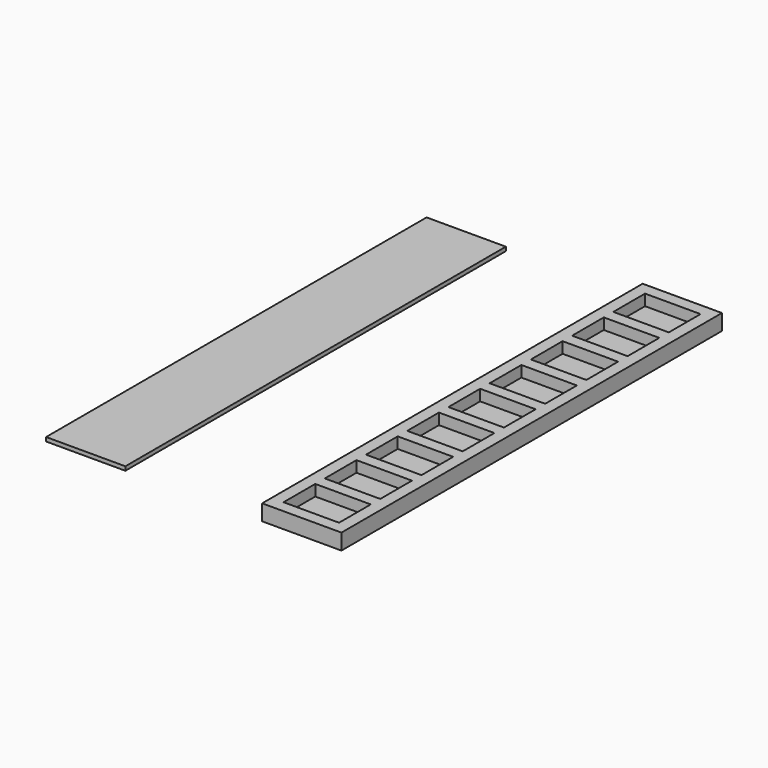
from build123d import *

# Parameters (mm, degrees)
F0_W     = 10
F0_H     = 60
F0_W_2   = 7
F0_H_2   = 5
F1_DEPTH = 2
F2_W     = 10
F2_H     = 60
F3_DEPTH = 0.5
F4_W     = 9
F4_H     = 59
F5_DEPTH = 0.6
F6_W     = 9
F6_H     = 59
F7_DEPTH = 0.6


with BuildPart() as f1:
    # F0 (on Top) → F1 (new body)
    with BuildSketch(Plane.XY):
        with Locations((5, 30)):
            Rectangle(F0_W, F0_H)
        with Locations((5, 4)):
            Rectangle(F0_W_2, F0_H_2, mode=Mode.SUBTRACT)
        with Locations((5, 10.5)):
            Rectangle(F0_W_2, F0_H_2, mode=Mode.SUBTRACT)
        with Locations((5, 17)):
            Rectangle(F0_W_2, F0_H_2, mode=Mode.SUBTRACT)
        with Locations((5, 23.5)):
            Rectangle(F0_W_2, F0_H_2, mode=Mode.SUBTRACT)
        with Locations((5, 30)):
            Rectangle(F0_W_2, F0_H_2, mode=Mode.SUBTRACT)
        with Locations((5, 36.5)):
            Rectangle(F0_W_2, F0_H_2, mode=Mode.SUBTRACT)
        with Locations((5, 43)):
            Rectangle(F0_W_2, F0_H_2, mode=Mode.SUBTRACT)
        with Locations((5, 49.5)):
            Rectangle(F0_W_2, F0_H_2, mode=Mode.SUBTRACT)
        with Locations((5, 56)):
            Rectangle(F0_W_2, F0_H_2, mode=Mode.SUBTRACT)
    extrude(amount=F1_DEPTH)

    # F4 (on face) → F5 (cut)
    with BuildSketch(Plane(origin=(0, 0, 0), x_dir=(1, 0, 0), z_dir=(0, 0, -1))):
        with Locations((5, -30)):
            Rectangle(F4_W, F4_H)
    extrude(amount=-F5_DEPTH, mode=Mode.SUBTRACT)


with BuildPart() as f3:
    # F2 (on Top) → F3 (new body)
    with BuildSketch(Plane.XY):
        with Locations((-22.258061, 30)):
            Rectangle(F2_W, F2_H)
    extrude(amount=F3_DEPTH)


with BuildPart() as f7:
    # F6 (on face) → F7 (new body)
    with BuildSketch(Plane(origin=(0, 0, 0.6), x_dir=(1, 0, 0), z_dir=(0, 0, -1))):
        with Locations((5, -30)):
            Rectangle(F6_W, F6_H)
    extrude(amount=F7_DEPTH)


solid = Compound([f1.part, f3.part, f7.part])
